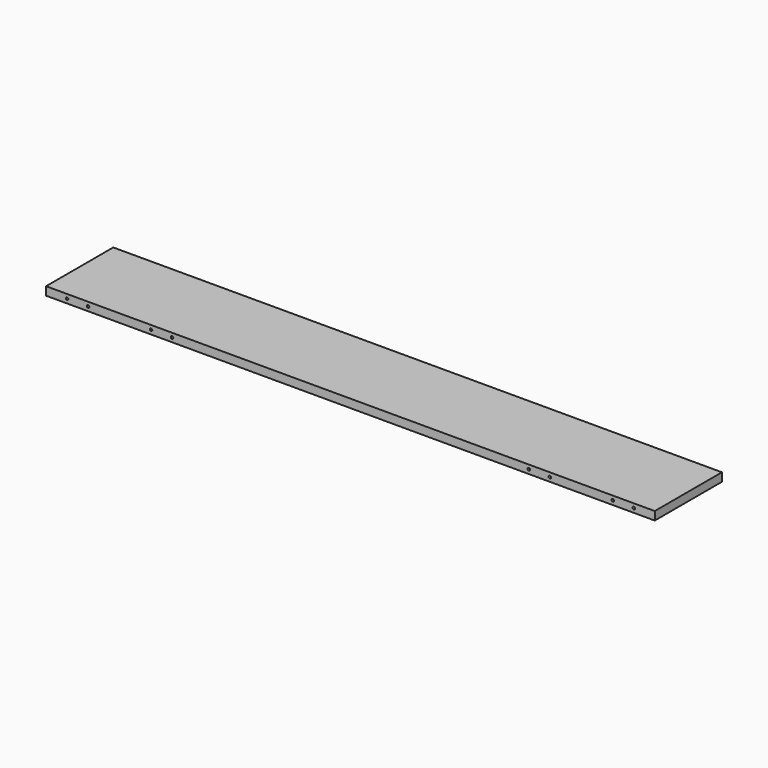
from build123d import *

# Parameters (mm, degrees)
F0_W     = 1450
F0_H     = 200
F1_DEPTH = 10
F3_D     = 6
F3_DEPTH = 25
F3_TIP   = 1.8025818571
F5_D     = 3.5
F5_DEPTH = 5
F5_TIP   = 1.0515060833
F6_D     = 3.5
F6_DEPTH = 5
F6_TIP   = 1.0515060833


with BuildPart() as f1:
    # F0 (on Top) → F1 (new body, symmetric)
    with BuildSketch(Plane.XY):
        Rectangle(F0_W, F0_H)
    extrude(amount=F1_DEPTH, both=True)

    # F3
    with Locations(Plane.XZ.offset(100)):
        with Locations((-675, 0), (-625, 0), (-475, 0), (-425, 0), (425, 0), (475, 0), (625, 0), (675, 0)):
            Hole(F3_D / 2, depth=F3_DEPTH)
            with Locations((0, 0, -(F3_DEPTH + F3_TIP / 2))):  # 118° drill point
                Cone(0, F3_D / 2, F3_TIP, mode=Mode.SUBTRACT)

    # F5
    with Locations(Plane(origin=(0, 0, -10), x_dir=(1, 0, 0), z_dir=(0, 0, -1))):
        with Locations((-599, 5), (-599, -5), (-589, 0), (-485, 5), (-485, -5), (-475, 0)):
            Hole(F5_D / 2, depth=F5_DEPTH)
            with Locations((0, 0, -(F5_DEPTH + F5_TIP / 2))):  # 118° drill point
                Cone(0, F5_D / 2, F5_TIP, mode=Mode.SUBTRACT)

    # F6
    with Locations(Plane(origin=(0, 0, -10), x_dir=(1, 0, 0), z_dir=(0, 0, -1))):
        with Locations((475, 0), (485, -5), (485, 5), (589, 0), (599, 5), (599, -5)):
            Hole(F6_D / 2, depth=F6_DEPTH)
            with Locations((0, 0, -(F6_DEPTH + F6_TIP / 2))):  # 118° drill point
                Cone(0, F6_D / 2, F6_TIP, mode=Mode.SUBTRACT)


solid = f1.part
